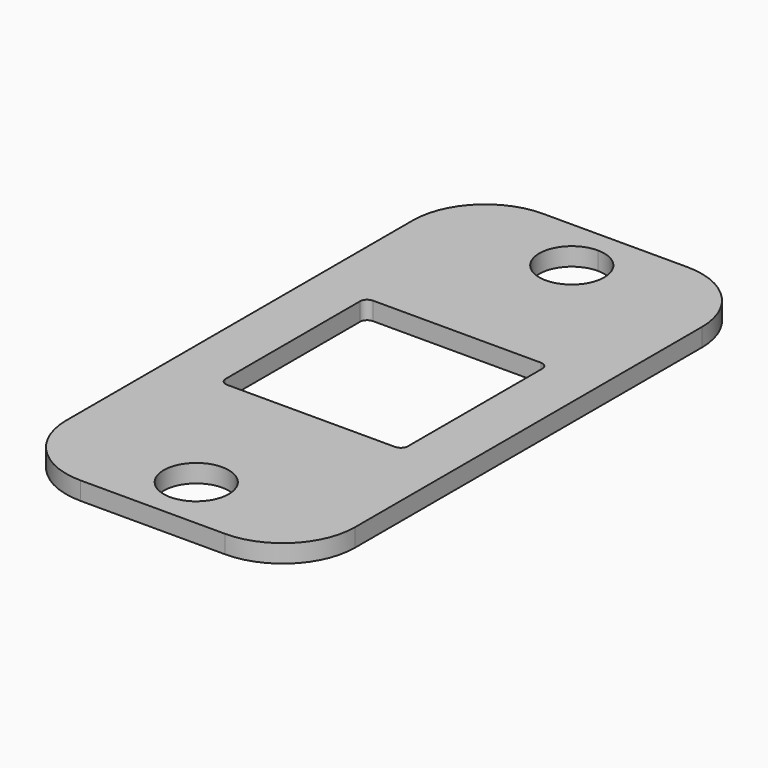
from build123d import *

# Parameters (mm, degrees)
F0_R     = 9
F1_DEPTH = 5


with BuildPart() as f1:
    # F0 (on Top) → F1 (new body)
    with BuildSketch(Plane.XY):
        with BuildLine():
            Line((20, 80), (0, 80))
            Line((0, 80), (-20, 80))
            ThreePointArc((-20, 80), (-34.142136, 74.142136), (-40, 60))
            Line((-40, 60), (-40, -60))
            ThreePointArc((-40, -60), (-34.142136, -74.142136), (-20, -80))
            Line((-20, -80), (20, -80))
            ThreePointArc((20, -80), (34.142136, -74.142136), (40, -60))
            Line((40, -60), (40, 60))
            ThreePointArc((40, 60), (34.142136, 74.142136), (20, 80))
        make_face()
        with Locations((0, -65)):
            Circle(F0_R, mode=Mode.SUBTRACT)
        with BuildLine():
            ThreePointArc((25.25, -23.25), (24.664214, -24.664214), (23.25, -25.25))
            Line((23.25, -25.25), (-23.25, -25.25))
            ThreePointArc((-23.25, -25.25), (-24.664214, -24.664214), (-25.25, -23.25))
            Line((-25.25, -23.25), (-25.25, 23.25))
            ThreePointArc((-25.25, 23.25), (-24.664214, 24.664214), (-23.25, 25.25))
            Line((-23.25, 25.25), (23.25, 25.25))
            ThreePointArc((23.25, 25.25), (24.664214, 24.664214), (25.25, 23.25))
            Line((25.25, 23.25), (25.25, -23.25))
        make_face(mode=Mode.SUBTRACT)
        with BuildLine():
            ThreePointArc((9, 65), (-6.363961, 58.636039), (0, 74))
            ThreePointArc((0, 74), (6.363961, 71.363961), (9, 65))
        make_face(mode=Mode.SUBTRACT)
    extrude(amount=F1_DEPTH)


solid = f1.part
